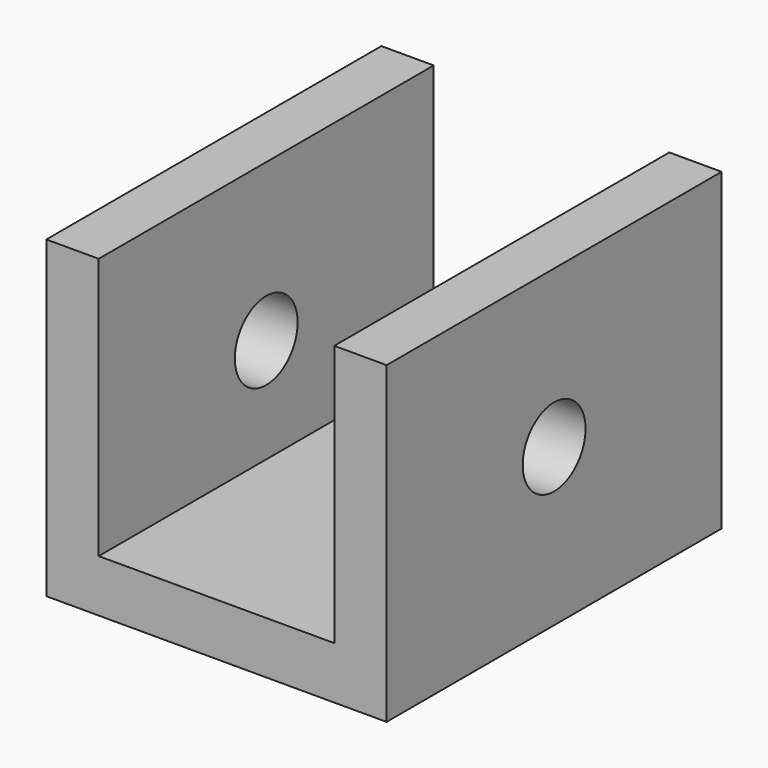
from build123d import *

# Parameters (mm, degrees)
F1_DEPTH = 40
F2_R     = 7.5
F3_DEPTH = 50


with BuildPart() as f1:
    # F0 (on Front) → F1 (new body, symmetric)
    with BuildSketch(Plane.XZ):
        Polygon((-22.499999, 60), (-32.5, 60), (-32.5, 0), (32.5, 0), (32.5, 60), (22.5, 60), (22.5, 10), (-22.499999, 10), align=None)
    extrude(amount=F1_DEPTH, both=True)

    # F2 (on Right) → F3 (cut, symmetric)
    with BuildSketch(Plane.YZ):
        with Locations((0, 30)):
            Circle(F2_R)
    extrude(amount=F3_DEPTH, both=True, mode=Mode.SUBTRACT)


solid = f1.part
